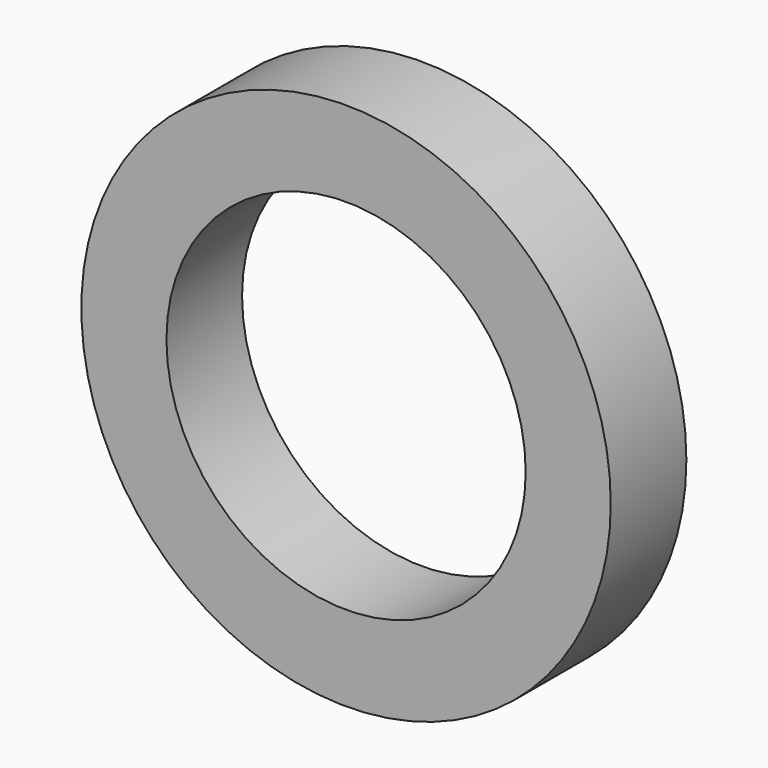
from build123d import *

# Parameters (mm, degrees)
F0_R     = 3.556
F1_DEPTH = 1.27


with BuildPart() as f1:
    # F0 (on Front) → F1 (new body)
    with BuildSketch(Plane.XZ):
        Circle(F0_R)
        with BuildLine():
            ThreePointArc((-2.413, 0), (0, 2.413), (2.413, 0))
            ThreePointArc((2.413, 0), (0, -2.413), (-2.413, 0))
        make_face(mode=Mode.SUBTRACT)
    extrude(amount=F1_DEPTH)


solid = f1.part
